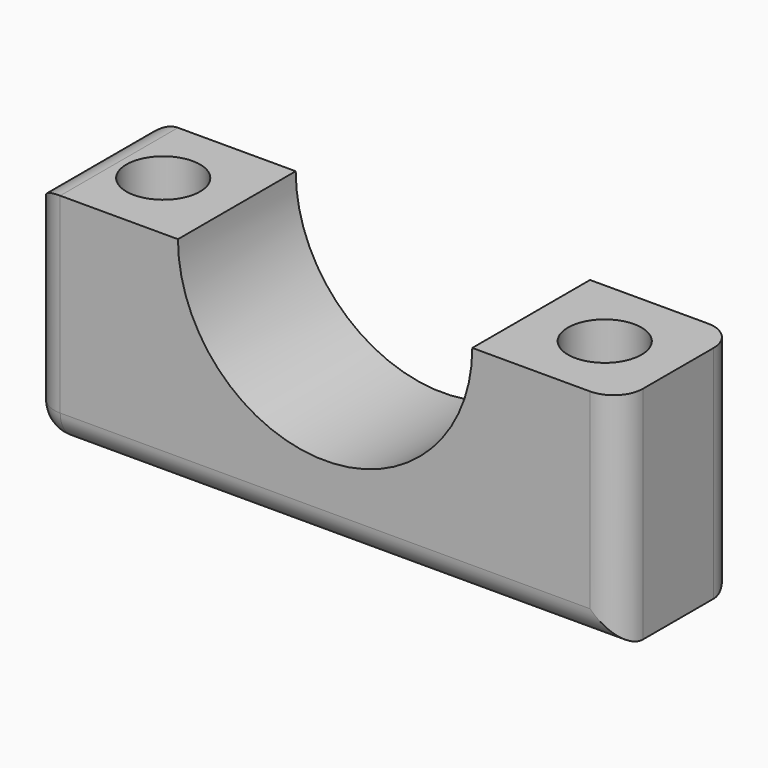
from build123d import *

# Parameters (mm, degrees)
F1_DEPTH = 25.4
F3_D     = 12.7
F4_D     = 12.7
F5_R     = 5.08


with BuildPart() as f1:
    # F0 (on Front) → F1 (new body)
    with BuildSketch(Plane.XZ):
        with BuildLine():
            Line((-25.4, 19.05), (-50.8, 19.05))
            Line((-50.8, 19.05), (-50.8, -19.05))
            Line((-50.8, -19.05), (50.8, -19.05))
            Line((50.8, -19.05), (50.8, 19.05))
            Line((50.8, 19.05), (25.4, 19.05))
            ThreePointArc((25.4, 19.05), (0, -6.35), (-25.4, 19.05))
        make_face()
    extrude(amount=F1_DEPTH)

    # F3 (through all)
    with Locations(Plane.XY.offset(19.05)):
        with Locations((-38.1, -12.7)):
            Hole(F3_D / 2)

    # F4 (through all)
    with Locations(Plane.XY.offset(19.05)):
        with Locations((38.1, -12.7)):
            Hole(F4_D / 2)

    # F5
    f5_edges = [f1.edges().sort_by_distance(p)[0] for p in [
        (50.8, 0, 0),
        (-50.8, 0, 0),
        (0, 0, -19.05),
        (-50.8, -12.7, -19.05),
        (-50.8, -12.7, 19.05),
        (-50.8, -25.4, 0),
        (0, -25.4, -19.05),
        (50.8, -25.4, 0),
    ]]
    fillet(f5_edges, radius=F5_R)


solid = f1.part
